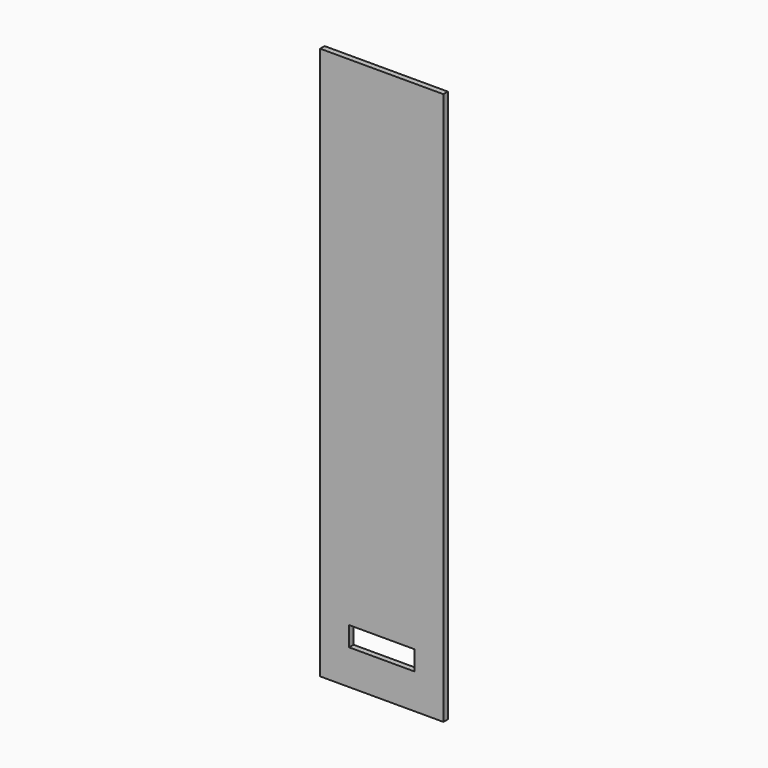
from build123d import *

# Parameters (mm, degrees)
F0_W     = 419.1
F0_H     = 1879.6
F1_DEPTH = 19.05
F3_DEPTH = 25.4


with BuildPart() as f1:
    # F0 (on Front) → F1 (new body)
    with BuildSketch(Plane.XZ):
        Rectangle(F0_W, F0_H)
    extrude(amount=F1_DEPTH)

    # F2 (on face) → F3 (cut)
    with BuildSketch(Plane.XZ.offset(19.05)):
        Polygon((-111.125, -820.7375), (0, -820.7375), (111.125, -820.7375), (111.125, -754.0625), (-111.125, -754.0625), align=None)
    extrude(amount=-F3_DEPTH, mode=Mode.SUBTRACT)


solid = f1.part
